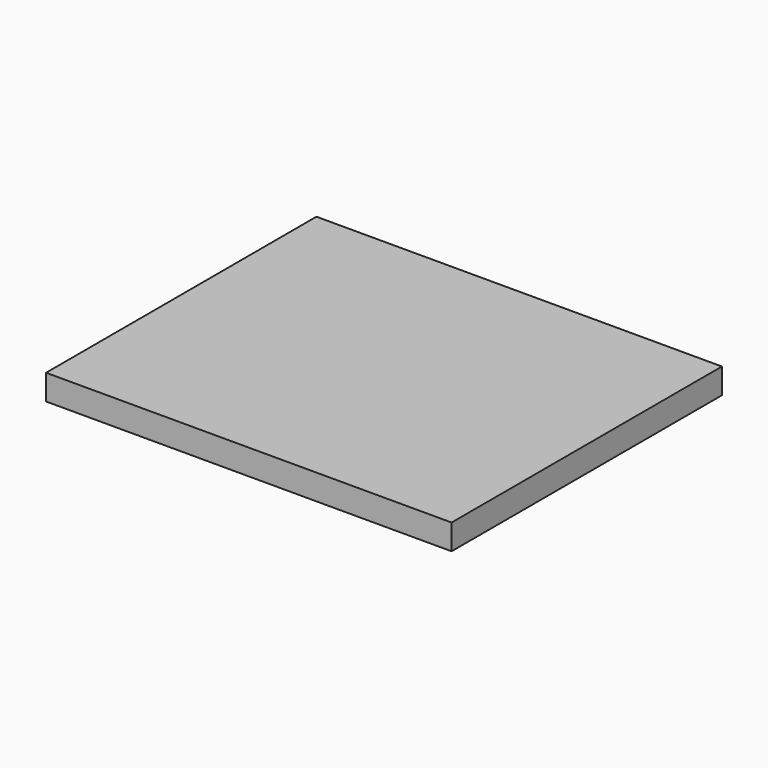
from build123d import *

# Parameters (mm, degrees)
BOX_W     = 304.8
BOX_H     = 254
BOX_DEPTH = 19.05


with BuildPart() as part:
    # Box → Box (new body)
    with BuildSketch(Plane.XY):
        with Locations((152.4, 127)):
            Rectangle(BOX_W, BOX_H)
    extrude(amount=BOX_DEPTH)


solid = part.part
